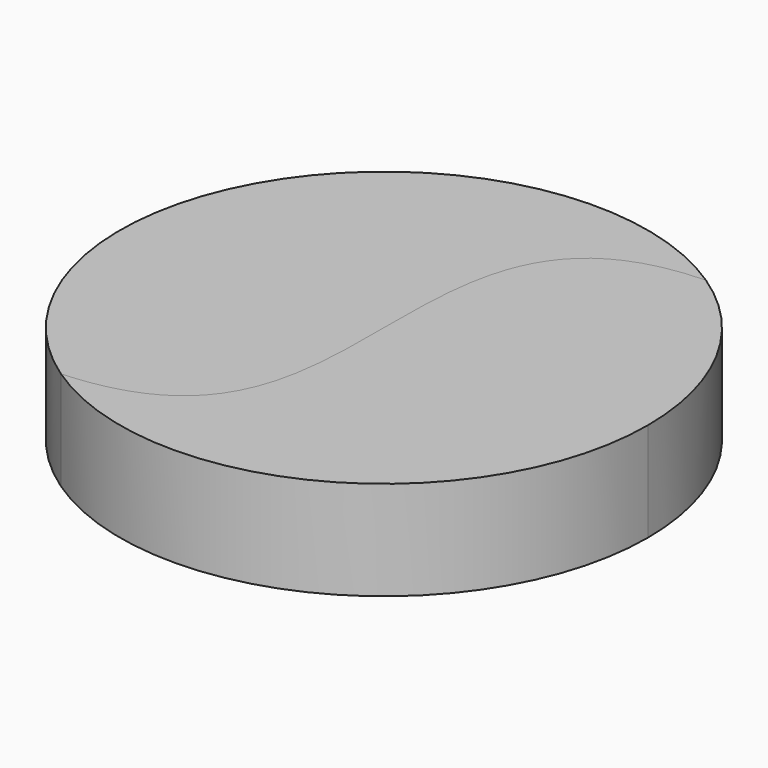
from build123d import *

# Parameters (mm, degrees)
F1_DEPTH = 15
F2_DEPTH = 15
F3_R     = 2.7159146739
F4_DEPTH = 2.5


with BuildPart() as f1:
    # F0 (on Top) → F1 (new body)
    with BuildSketch(Plane.XY):
        with BuildLine():
            ThreePointArc((-22.4566213902, -33.1013618411), (18.7314594251, -35.343067606), (40, 0))
            ThreePointArc((40, 0), (35.2533828755, 18.8997088822), (22.1400502084, 33.313933673))
            add(Edge.make_bspline(
                [(22.1400502084, 33.313933673), (0, 32.687947154), (0, -0.3885608166), (0, -31.9108255208), (-22.4566213902, -33.1013618411)],
                knots=[0, 0, 0, 0, 0.5, 1, 1, 1, 1], degree=3))
        make_face()
    extrude(amount=F1_DEPTH)


with BuildPart() as f2:
    # F0 (on Top) → F2 (new body)
    with BuildSketch(Plane.XY):
        with BuildLine():
            add(Edge.make_bspline(
                [(22.1400502084, 33.313933673), (0, 32.687947154), (0, -0.3885608166), (0, -31.9108255208), (-22.4566213902, -33.1013618411)],
                knots=[0, 0, 0, 0, 0.5, 1, 1, 1, 1], degree=3))
            ThreePointArc((22.1400502084, 33.313933673), (-33.2080249922, 22.2985891059), (-22.4566213902, -33.1013618411))
        make_face()
    extrude(amount=F2_DEPTH)


with BuildPart() as f4_tool:
    # F3 (on Top) → F4 (new body, symmetric)
    with BuildSketch(Plane.XY):
        with Locations((-25.976461919, 22.994065986)):
            Circle(F3_R)
        with Locations((-26.2242592871, -25.377934014)):
            Circle(F3_R)
        with Locations((24.023538081, 22.4688367873)):
            Circle(F3_R)
        with Locations((23.7757407129, -25.9028114378)):
            Circle(F3_R)
    extrude(amount=F4_DEPTH, both=True)


with BuildPart() as f1_1:
    add(f1.part)

    # F4: cut by f4_tool
    add(f4_tool.part, mode=Mode.SUBTRACT)


with BuildPart() as f2_1:
    add(f2.part)

    # F4: cut by f4_tool
    add(f4_tool.part, mode=Mode.SUBTRACT)


solid = Compound([f1_1.part, f2_1.part])
